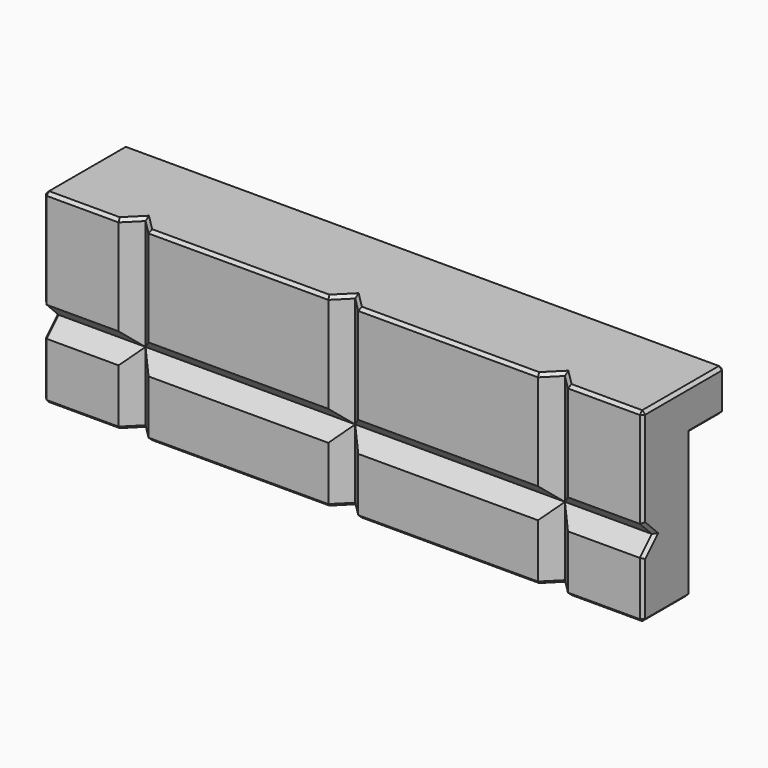
from build123d import *

# Parameters (mm, degrees)
PAD_DEPTH         = 50
POCKET_DEPTH      = 24.001
POCKET_DEPTH_BACK = -7.001
SKETCH002_W       = 6
SKETCH002_H       = 12
POCKET001_DEPTH   = 3
CHAMFER_SIZE      = 0.5


with BuildPart() as part:
    # Sketch → Pad (new body, symmetric)
    with BuildSketch(Plane.YZ):
        Polygon((7, 7), (-10, 7), (-10, -9.5), (-7.5, -12), (-10, -14.5), (-10, -24), (0, -24), (0, 0), (7, 0), align=None)
    extrude(amount=PAD_DEPTH, both=True)

    # Sketch001 → Pocket (cut, two sides)
    with BuildSketch(Plane.XY) as pocket_sk:
        Polygon((-37.5, -10), (-32.5, -10), (-35, -7.5), align=None)
        Polygon((-2.5, -10), (2.5, -10), (0, -7.5), align=None)
        Polygon((32.5, -10), (37.5, -10), (35, -7.5), align=None)
    extrude(amount=-POCKET_DEPTH, mode=Mode.SUBTRACT)
    extrude(pocket_sk.sketch, amount=-POCKET_DEPTH_BACK, mode=Mode.SUBTRACT)

    # Sketch002 → Pocket001 (cut)
    with BuildSketch(Plane.XZ):
        with Locations((-20, -12)):
            Rectangle(SKETCH002_W, SKETCH002_H)
        with Locations((14, -12)):
            Rectangle(SKETCH002_W, SKETCH002_H)
    extrude(amount=POCKET001_DEPTH, mode=Mode.SUBTRACT)

    # Chamfer
    chamfer_edges = [part.edges().sort_by_distance(p)[0] for p in [
        (50, -1.5, 7),
        (50, -10, -1.25),
        (50, -8.75, -10.75),
        (50, -8.75, -13.25),
        (50, -10, -19.25),
        (50, -5, -24),
        (50, 0, -12),
        (50, 3.5, 0),
        (50, 7, 3.5),
        (-50, -1.5, 7),
        (-50, -10, -1.25),
        (-50, -8.75, -10.75),
        (-50, -8.75, -13.25),
        (-50, -10, -19.25),
        (-50, -5, -24),
        (-50, 0, -12),
        (-50, 3.5, 0),
        (-50, 7, 3.5),
        (0, 7, 0),
        (0, 7, 7),
        (-43.75, -10, 7),
        (-36.25, -8.75, 7),
        (-33.75, -8.75, 7),
        (-17.5, -10, 7),
        (-1.25, -8.75, 7),
        (1.25, -8.75, 7),
        (17.5, -10, 7),
        (33.75, -8.75, 7),
        (36.25, -8.75, 7),
        (43.75, -10, 7),
        (0, 0, -24),
        (43.75, -10, -24),
        (36.25, -8.75, -24),
        (33.75, -8.75, -24),
        (17.5, -10, -24),
        (1.25, -8.75, -24),
        (-1.25, -8.75, -24),
        (-17.5, -10, -24),
        (-33.75, -8.75, -24),
        (-36.25, -8.75, -24),
        (-43.75, -10, -24),
    ]]
    chamfer(chamfer_edges, length=CHAMFER_SIZE)


solid = part.part
